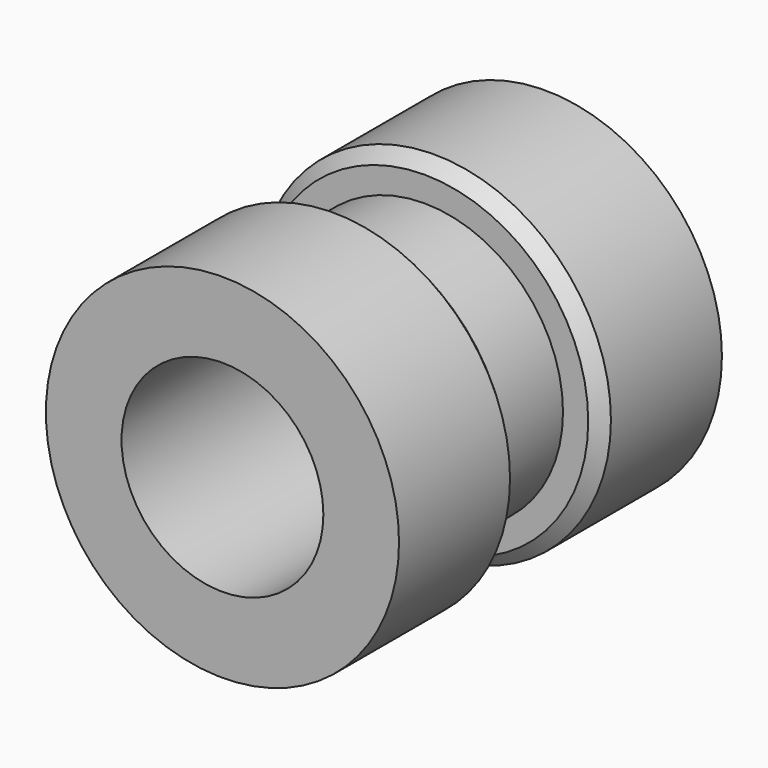
from build123d import *

# Parameters (mm, degrees)
F0_R     = 7
F0_R_2   = 4
F1_DEPTH = 6
F2_R     = 5.5
F2_R_2   = 4
F3_DEPTH = 4
F4_R     = 7
F4_R_2   = 4
F5_DEPTH = 6
F6_SIZE  = 0.5


with BuildPart() as f1:
    # F0 (on Front) → F1 (new body)
    with BuildSketch(Plane.XZ):
        Circle(F0_R)
        Circle(F0_R_2, mode=Mode.SUBTRACT)
    extrude(amount=F1_DEPTH)

    # F2 (on face) → F3 (join)
    with BuildSketch(Plane.XZ.offset(6)):
        Circle(F2_R)
        Circle(F2_R_2, mode=Mode.SUBTRACT)
    extrude(amount=F3_DEPTH)

    # F4 (on face) → F5 (join)
    with BuildSketch(Plane.XZ.offset(10)):
        Circle(F4_R)
        Circle(F4_R_2, mode=Mode.SUBTRACT)
    extrude(amount=F5_DEPTH)

    # F6
    f6_edges = [f1.edges().sort_by_distance(p)[0] for p in [
        (-7, -6, 0),
        (-7, -10, 0),
    ]]
    chamfer(f6_edges, length=F6_SIZE)


solid = f1.part
